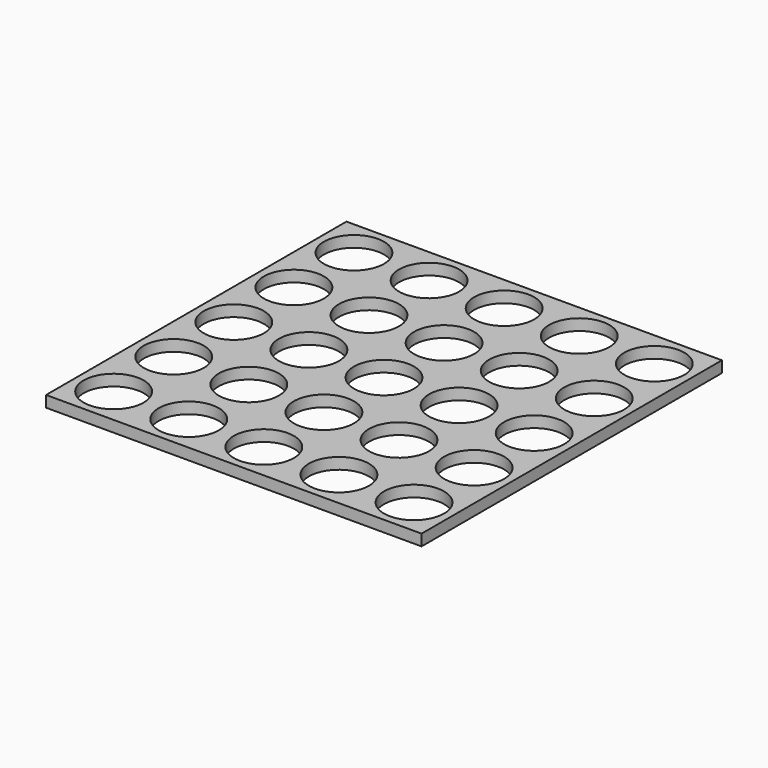
from build123d import *

# Parameters (mm, degrees)
F0_W     = 100
F0_H     = 100
F0_R     = 8
F1_DEPTH = 3


with BuildPart() as f1:
    # F0 (on Top) → F1 (new body)
    with BuildSketch(Plane.XY):
        Rectangle(F0_W, F0_H)
        with Locations((-40, -40)):
            Circle(F0_R, mode=Mode.SUBTRACT)
        with Locations((-20, -40)):
            Circle(F0_R, mode=Mode.SUBTRACT)
        with Locations((-40, -20)):
            Circle(F0_R, mode=Mode.SUBTRACT)
        with Locations((-20, -20)):
            Circle(F0_R, mode=Mode.SUBTRACT)
        with Locations((0, -40)):
            Circle(F0_R, mode=Mode.SUBTRACT)
        with Locations((20, -40)):
            Circle(F0_R, mode=Mode.SUBTRACT)
        with Locations((40, -40)):
            Circle(F0_R, mode=Mode.SUBTRACT)
        with Locations((0, -20)):
            Circle(F0_R, mode=Mode.SUBTRACT)
        with Locations((20, -20)):
            Circle(F0_R, mode=Mode.SUBTRACT)
        with Locations((40, -20)):
            Circle(F0_R, mode=Mode.SUBTRACT)
        with Locations((-40, 0)):
            Circle(F0_R, mode=Mode.SUBTRACT)
        with Locations((-40, 20)):
            Circle(F0_R, mode=Mode.SUBTRACT)
        with Locations((-20, 0)):
            Circle(F0_R, mode=Mode.SUBTRACT)
        with Locations((-20, 20)):
            Circle(F0_R, mode=Mode.SUBTRACT)
        with Locations((-40, 40)):
            Circle(F0_R, mode=Mode.SUBTRACT)
        with Locations((-20, 40)):
            Circle(F0_R, mode=Mode.SUBTRACT)
        Circle(F0_R, mode=Mode.SUBTRACT)
        with Locations((20, 0)):
            Circle(F0_R, mode=Mode.SUBTRACT)
        with Locations((0, 20)):
            Circle(F0_R, mode=Mode.SUBTRACT)
        with Locations((20, 20)):
            Circle(F0_R, mode=Mode.SUBTRACT)
        with Locations((40, 0)):
            Circle(F0_R, mode=Mode.SUBTRACT)
        with Locations((40, 20)):
            Circle(F0_R, mode=Mode.SUBTRACT)
        with Locations((0, 40)):
            Circle(F0_R, mode=Mode.SUBTRACT)
        with Locations((20, 40)):
            Circle(F0_R, mode=Mode.SUBTRACT)
        with Locations((40, 40)):
            Circle(F0_R, mode=Mode.SUBTRACT)
    extrude(amount=F1_DEPTH)


solid = f1.part
